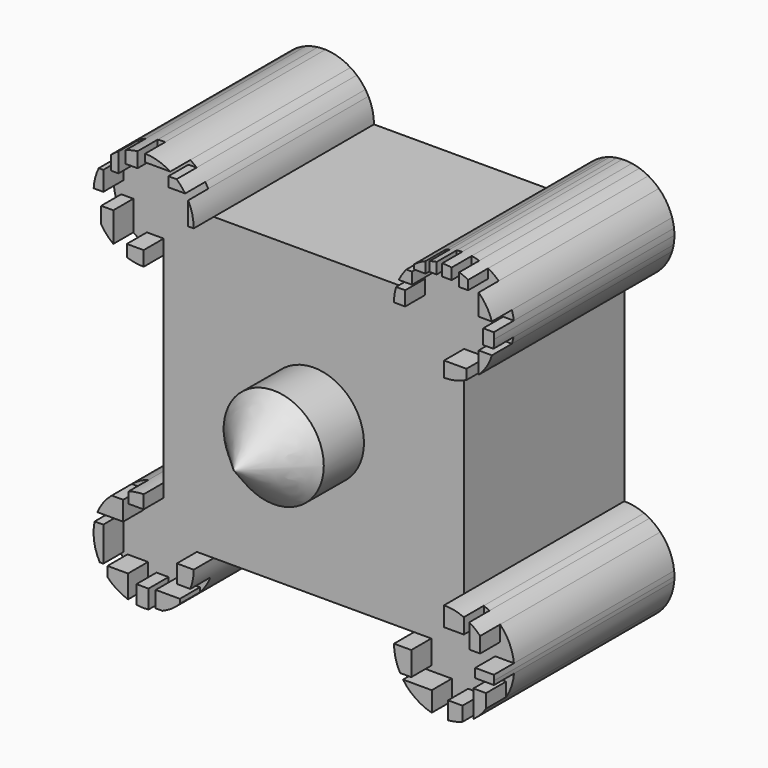
from build123d import *

# Parameters (mm, degrees)
F1_DEPTH  = 40
F2_DEPTH  = 45
F3_R      = 10
F7_R      = 10
F8_FACE_R = 10


with BuildPart() as f1:
    # F0 (on Front) → F1 (new body)
    with BuildSketch(Plane.XZ):
        with BuildLine():
            Line((-19.5192694664, 38.6552166259), (-21.2983953076, 38.6552166259))
            ThreePointArc((-21.2983953076, 38.6552166259), (-24.2273274957, 31.584148814), (-31.2983953076, 28.6552166259))
            Line((-31.2983953076, 28.6552166259), (-31.2983953076, 26.1431746185))
            Line((-31.2983953076, 26.1431746185), (-31.2983953076, -7.8573338687))
            Line((-31.2983953076, -7.8573338687), (-31.2983953076, -11.3447833741))
            ThreePointArc((-31.2983953076, -11.3447833741), (-24.2273274957, -14.2737155623), (-21.2983953076, -21.3447833741))
            Line((-21.2983953076, -21.3447833741), (-18.0444382131, -21.3447833741))
            Line((-18.0444382131, -21.3447833741), (15.4062714428, -21.3447833741))
            Line((15.4062714428, -21.3447833741), (18.7016046924, -21.3447833741))
            ThreePointArc((18.7016046924, -21.3447833741), (21.6305368805, -14.2737155623), (28.7016046924, -11.3447833741))
            Line((28.7016046924, -11.3447833741), (28.7016046924, -8.2212509587))
            Line((28.7016046924, -8.2212509587), (28.7016046924, 26.0202493519))
            Line((28.7016046924, 26.0202493519), (28.7016046924, 28.6552166259))
            ThreePointArc((28.7016046924, 28.6552166259), (21.6305368805, 31.584148814), (18.7016046924, 38.6552166259))
            Line((18.7016046924, 38.6552166259), (17.2888040543, 38.6552166259))
            Line((17.2888040543, 38.6552166259), (-19.5192694664, 38.6552166259))
        make_face()
        with BuildLine():
            ThreePointArc((-21.2983953076, -21.3447833741), (-24.2273274957, -14.2737155623), (-31.2983953076, -11.3447833741))
            Line((-31.2983953076, -11.3447833741), (-31.2983953076, -13.9995273203))
            Line((-31.2983953076, -13.9995273203), (-31.2983953076, -21.3447833741))
            Line((-31.2983953076, -21.3447833741), (-24.6683731675, -21.3447833741))
            Line((-24.6683731675, -21.3447833741), (-21.2983953076, -21.3447833741))
        make_face()
        with BuildLine():
            Line((28.7016046924, -15.2064906433), (28.7016046924, -11.3447833741))
            ThreePointArc((28.7016046924, -11.3447833741), (21.6305368805, -14.2737155623), (18.7016046924, -21.3447833741))
            Line((18.7016046924, -21.3447833741), (22.1506413072, -21.3447833741))
            Line((22.1506413072, -21.3447833741), (28.7016046924, -21.3447833741))
            Line((28.7016046924, -21.3447833741), (28.7016046924, -15.2064906433))
        make_face()
        with BuildLine():
            Line((20.9370907396, 38.6552166259), (18.7016046924, 38.6552166259))
            ThreePointArc((18.7016046924, 38.6552166259), (21.6305368805, 31.584148814), (28.7016046924, 28.6552166259))
            Line((28.7016046924, 28.6552166259), (28.7016046924, 31.6915661097))
            Line((28.7016046924, 31.6915661097), (28.7016046924, 38.6552166259))
            Line((28.7016046924, 38.6552166259), (20.9370907396, 38.6552166259))
        make_face()
        with BuildLine():
            Line((-22.4061483814, 38.6552166259), (-31.2983953076, 38.6552166259))
            Line((-31.2983953076, 38.6552166259), (-31.2983953076, 31.5864793956))
            Line((-31.2983953076, 31.5864793956), (-31.2983953076, 28.6552166259))
            ThreePointArc((-31.2983953076, 28.6552166259), (-24.2273274957, 31.584148814), (-21.2983953076, 38.6552166259))
            Line((-21.2983953076, 38.6552166259), (-22.4061483814, 38.6552166259))
        make_face()
        with BuildLine():
            Line((-31.2983953076, 31.5864793956), (-31.2983953076, 38.6552166259))
            Line((-31.2983953076, 38.6552166259), (-22.4061483814, 38.6552166259))
            Line((-22.4061483814, 38.6552166259), (-22.4061483814, 43.229923677))
            ThreePointArc((-22.4061483814, 43.229923677), (-22.6894336256, 43.743023497), (-23.0022925433, 44.2386455834))
            Line((-23.0022925433, 44.2386455834), (-26.3478793204, 44.2386455834))
            Line((-26.3478793204, 44.2386455834), (-26.3478793204, 46.1894199252))
            Line((-26.3478793204, 46.1894199252), (-24.7230032551, 46.1894199252))
            ThreePointArc((-24.7230032551, 46.1894199252), (-25.3341161625, 46.6818830746), (-25.9819677732, 47.1249036491))
            Line((-25.9819677732, 47.1249036491), (-30.9894606471, 47.1249036491))
            Line((-30.9894606471, 47.1249036491), (-30.9894606471, 48.6504434555))
            ThreePointArc((-30.9894606471, 48.6504434555), (-31.7511430488, 48.6449623425), (-32.5101986527, 48.5815217115))
            Line((-32.5101986527, 48.5815217115), (-32.5101986527, 45.584730804))
            Line((-32.5101986527, 45.584730804), (-34.9035263062, 45.584730804))
            Line((-34.9035263062, 45.584730804), (-34.9035263062, 47.9827581285))
            ThreePointArc((-34.9035263062, 47.9827581285), (-35.6330310996, 47.6669274818), (-36.335144192, 47.2941494694))
            Line((-36.335144192, 47.2941494694), (-36.335144192, 43.4362143278))
            Line((-36.335144192, 43.4362143278), (-37.7912968397, 43.4362143278))
            Line((-37.7912968397, 43.4362143278), (-37.7912968397, 46.2606245501))
            ThreePointArc((-37.7912968397, 46.2606245501), (-39.1903209398, 44.7966749067), (-40.2657431804, 43.0808998644))
            Line((-40.2657431804, 43.0808998644), (-39.3526405096, 43.0808998644))
            Line((-39.3526405096, 43.0808998644), (-39.3526405096, 39.2069965601))
            Line((-39.3526405096, 39.2069965601), (-41.2831606481, 39.2069965601))
            ThreePointArc((-41.2831606481, 39.2069965601), (-40.9840518019, 36.1676358181), (-39.7815443575, 33.3602962113))
            Line((-39.7815443575, 33.3602962113), (-39.7815443575, 36.6176068783))
            Line((-39.7815443575, 36.6176068783), (-37.3588092625, 36.6176068783))
            Line((-37.3588092625, 36.6176068783), (-37.3588092625, 30.7008855606))
            ThreePointArc((-37.3588092625, 30.7008855606), (-36.0644893634, 29.8640649691), (-34.6569493413, 29.2360810603))
            Line((-34.6569493413, 29.2360810603), (-34.6569493413, 31.5864793956))
            Line((-34.6569493413, 31.5864793956), (-31.2983953076, 31.5864793956))
        make_face()
        with BuildLine():
            Line((20.9370907396, 41.5121763945), (20.9370907396, 38.6552166259))
            Line((20.9370907396, 38.6552166259), (28.7016046924, 38.6552166259))
            Line((28.7016046924, 38.6552166259), (28.7016046924, 31.6915661097))
            Line((28.7016046924, 31.6915661097), (33.1739149988, 31.6915661097))
            Line((33.1739149988, 31.6915661097), (33.1739149988, 29.7110318937))
            ThreePointArc((33.1739149988, 29.7110318937), (34.4530170299, 30.4746753159), (35.604480654, 31.4198656697))
            Line((35.604480654, 31.4198656697), (35.604480654, 35.7097097086))
            Line((35.604480654, 35.7097097086), (38.2579632562, 35.7097097086))
            ThreePointArc((38.2579632562, 35.7097097086), (38.4272671804, 36.3289558558), (38.5564887696, 36.9577892125))
            Line((38.5564887696, 36.9577892125), (36.5159399807, 36.9577892125))
            Line((36.5159399807, 36.9577892125), (36.5159399807, 39.8947186768))
            Line((36.5159399807, 39.8947186768), (38.6244890848, 39.8947186768))
            ThreePointArc((38.6244890848, 39.8947186768), (38.4736234158, 40.7783393425), (38.2442350879, 41.644899742))
            Line((38.2442350879, 41.644899742), (35.604480654, 41.644899742))
            Line((35.604480654, 41.644899742), (35.604480654, 45.890567582))
            ThreePointArc((35.604480654, 45.890567582), (34.604809714, 46.7269060694), (33.5048548877, 47.4261223693))
            Line((33.5048548877, 47.4261223693), (33.5048548877, 45.5940142274))
            Line((33.5048548877, 45.5940142274), (31.7244045436, 45.5940142274))
            Line((31.7244045436, 45.5940142274), (31.7244045436, 48.1874084546))
            ThreePointArc((31.7244045436, 48.1874084546), (30.9797509535, 48.3922618457), (30.2215088159, 48.5390363053))
            Line((30.2215088159, 48.5390363053), (30.2215088159, 46.3171936572))
            Line((30.2215088159, 46.3171936572), (28.3177439123, 46.3171936572))
            Line((28.3177439123, 46.3171936572), (28.3177439123, 48.647846455))
            ThreePointArc((28.3177439123, 48.647846455), (27.7670329905, 48.6114496351), (27.2191688418, 48.5447254078))
            Line((27.2191688418, 48.5447254078), (27.2191688418, 46.3341660798))
            Line((27.2191688418, 46.3341660798), (25.811932981, 46.3341660798))
            Line((25.811932981, 46.3341660798), (25.811932981, 48.2286066942))
            ThreePointArc((25.811932981, 48.2286066942), (25.3995749241, 48.0943161279), (24.9934270978, 47.9422731524))
            Line((24.9934270978, 47.9422731524), (24.9934270978, 45.7545854151))
            Line((24.9934270978, 45.7545854151), (22.7282755077, 45.7545854151))
            Line((22.7282755077, 45.7545854151), (22.7282755077, 46.6751504442))
            ThreePointArc((22.7282755077, 46.6751504442), (21.9119338622, 45.9969037628), (21.1720732581, 45.2359579504))
            Line((21.1720732581, 45.2359579504), (22.2977045923, 45.2359579504))
            Line((22.2977045923, 45.2359579504), (22.2977045923, 42.925298214))
            Line((22.2977045923, 42.925298214), (19.6591269771, 42.925298214))
            ThreePointArc((19.6591269771, 42.925298214), (19.3619995401, 42.2289787332), (19.1184016328, 41.5121763945))
            Line((19.1184016328, 41.5121763945), (20.9370907396, 41.5121763945))
        make_face()
        with BuildLine():
            Line((-34.303188324, -13.9995273203), (-34.303188324, -11.8069000173))
            ThreePointArc((-34.303188324, -11.8069000173), (-36.0756221288, -12.5596764369), (-37.6709070987, -13.6382216588))
            Line((-37.6709070987, -13.6382216588), (-35.3871062398, -13.6382216588))
            Line((-35.3871062398, -13.6382216588), (-35.3871062398, -17.4921471626))
            Line((-35.3871062398, -17.4921471626), (-40.5264608807, -17.4921471626))
            ThreePointArc((-40.5264608807, -17.4921471626), (-40.8494530465, -18.3821331975), (-41.0868296184, -19.2986764014))
            Line((-41.0868296184, -19.2986764014), (-39.3614657223, -19.2986764014))
            Line((-39.3614657223, -19.2986764014), (-39.3614657223, -26.1634811759))
            Line((-39.3614657223, -26.1634811759), (-40.0608237093, -26.1634811759))
            ThreePointArc((-40.0608237093, -26.1634811759), (-39.3583210334, -27.2640398557), (-38.5184176266, -28.2636906371))
            Line((-38.5184176266, -28.2636906371), (-38.5184176266, -26.283916086))
            Line((-38.5184176266, -26.283916086), (-34.423623234, -26.283916086))
            Line((-34.423623234, -26.283916086), (-34.423623234, -30.8438859848))
            ThreePointArc((-34.423623234, -30.8438859848), (-33.589184658, -31.0788618694), (-32.7375307679, -31.2406860175))
            Line((-32.7375307679, -31.2406860175), (-32.7375307679, -27.6087038219))
            Line((-32.7375307679, -27.6087038219), (-30.3288269788, -27.6087038219))
            Line((-30.3288269788, -27.6087038219), (-30.3288269788, -31.2976692499))
            ThreePointArc((-30.3288269788, -31.2976692499), (-28.9199566333, -31.0578173735), (-27.5596645795, -30.6195821613))
            Line((-27.5596645795, -30.6195821613), (-28.8836043328, -30.6195821613))
            Line((-28.8836043328, -30.6195821613), (-28.8836043328, -27.3678321391))
            Line((-28.8836043328, -27.3678321391), (-24.0661986172, -27.3678321391))
            Line((-24.0661986172, -27.3678321391), (-24.0661986172, -28.2509640141))
            ThreePointArc((-24.0661986172, -28.2509640141), (-22.8582684133, -26.7080154229), (-21.9744209978, -24.9591302127))
            Line((-21.9744209978, -24.9591302127), (-24.6683731675, -24.9591302127))
            Line((-24.6683731675, -24.9591302127), (-24.6683731675, -21.3447833741))
            Line((-24.6683731675, -21.3447833741), (-31.2983953076, -21.3447833741))
            Line((-31.2983953076, -21.3447833741), (-31.2983953076, -13.9995273203))
            Line((-31.2983953076, -13.9995273203), (-34.303188324, -13.9995273203))
        make_face()
        with BuildLine():
            Line((32.6510183513, -15.2064906433), (28.7016046924, -15.2064906433))
            Line((28.7016046924, -15.2064906433), (28.7016046924, -21.3447833741))
            Line((28.7016046924, -21.3447833741), (22.1506413072, -21.3447833741))
            Line((22.1506413072, -21.3447833741), (22.1506413072, -26.1106528342))
            Line((22.1506413072, -26.1106528342), (19.9103312755, -26.1106528342))
            ThreePointArc((19.9103312755, -26.1106528342), (20.1943134885, -26.6008271689), (20.5055970261, -27.0741339773))
            Line((20.5055970261, -27.0741339773), (26.2454375625, -27.0741339773))
            Line((26.2454375625, -27.0741339773), (26.2454375625, -31.03845363))
            ThreePointArc((26.2454375625, -31.03845363), (27.8600343313, -31.3093084169), (29.4971875846, -31.3130855296))
            Line((29.4971875846, -31.3130855296), (29.4971875846, -27.7967453003))
            Line((29.4971875846, -27.7967453003), (32.3876328766, -27.7967453003))
            Line((32.3876328766, -27.7967453003), (32.3876328766, -30.6406532218))
            ThreePointArc((32.3876328766, -30.6406532218), (33.5084119255, -30.1137402234), (34.555464983, -29.4523304568))
            Line((34.555464983, -29.4523304568), (34.555464983, -24.0632537752))
            Line((34.555464983, -24.0632537752), (37.0846018195, -24.0632537752))
            Line((37.0846018195, -24.0632537752), (37.0846018195, -26.796880142))
            ThreePointArc((37.0846018195, -26.796880142), (38.1686947609, -24.565684744), (38.6702312229, -22.136291489))
            Line((38.6702312229, -22.136291489), (34.9167697132, -22.136291489))
            Line((34.9167697132, -22.136291489), (34.9167697132, -20.3297641128))
            Line((34.9167697132, -20.3297641128), (38.6499581189, -20.3297641128))
            ThreePointArc((38.6499581189, -20.3297641128), (37.7734561196, -17.1374669275), (35.9027683735, -14.40625027))
            Line((35.9027683735, -14.40625027), (35.9027683735, -17.4947604537))
            Line((35.9027683735, -17.4947604537), (33.7349362671, -17.4947604537))
            Line((33.7349362671, -17.4947604537), (33.7349362671, -12.7038590452))
            ThreePointArc((33.7349362671, -12.7038590452), (33.2012707825, -12.4143295739), (32.6510183513, -12.157720092))
            Line((32.6510183513, -12.157720092), (32.6510183513, -15.2064906433))
        make_face()
    extrude(amount=F1_DEPTH)

    # F0 (on Front) → F2 (join)
    with BuildSketch(Plane.XZ):
        with BuildLine():
            Line((-22.4061483814, 43.229923677), (-22.4061483814, 38.6552166259))
            Line((-22.4061483814, 38.6552166259), (-21.2983953076, 38.6552166259))
            ThreePointArc((-21.2983953076, 38.6552166259), (-21.57927834, 41.0086747982), (-22.4061483814, 43.229923677))
        make_face()
        with BuildLine():
            Line((-26.3478793204, 44.2386455834), (-23.0022925433, 44.2386455834))
            ThreePointArc((-23.0022925433, 44.2386455834), (-23.7989473509, 45.2702208092), (-24.7230032551, 46.1894199252))
            Line((-24.7230032551, 46.1894199252), (-26.3478793204, 46.1894199252))
            Line((-26.3478793204, 46.1894199252), (-26.3478793204, 44.2386455834))
        make_face()
        with BuildLine():
            Line((-30.9894606471, 47.1249036491), (-25.9819677732, 47.1249036491))
            ThreePointArc((-25.9819677732, 47.1249036491), (-28.3841213189, 48.2211461217), (-30.9894606471, 48.6504434555))
            Line((-30.9894606471, 48.6504434555), (-30.9894606471, 47.1249036491))
        make_face()
        with BuildLine():
            Line((-32.5101986527, 45.584730804), (-32.5101986527, 48.5815217115))
            ThreePointArc((-32.5101986527, 48.5815217115), (-33.7253983103, 48.3562297907), (-34.9035263062, 47.9827581285))
            Line((-34.9035263062, 47.9827581285), (-34.9035263062, 45.584730804))
            Line((-34.9035263062, 45.584730804), (-32.5101986527, 45.584730804))
        make_face()
        with BuildLine():
            ThreePointArc((-36.335144192, 47.2941494694), (-37.0863356253, 46.8099543211), (-37.7912968397, 46.2606245501))
            Line((-37.7912968397, 46.2606245501), (-37.7912968397, 43.4362143278))
            Line((-37.7912968397, 43.4362143278), (-36.335144192, 43.4362143278))
            Line((-36.335144192, 43.4362143278), (-36.335144192, 47.2941494694))
        make_face()
        with BuildLine():
            ThreePointArc((-40.2657431804, 43.0808998644), (-40.9703873731, 41.1954074622), (-41.2831606481, 39.2069965601))
            Line((-41.2831606481, 39.2069965601), (-39.3526405096, 39.2069965601))
            Line((-39.3526405096, 39.2069965601), (-39.3526405096, 43.0808998644))
            Line((-39.3526405096, 43.0808998644), (-40.2657431804, 43.0808998644))
        make_face()
        with BuildLine():
            ThreePointArc((-39.7815443575, 33.3602962113), (-38.6907509857, 31.9207472682), (-37.3588092625, 30.7008855606))
            Line((-37.3588092625, 30.7008855606), (-37.3588092625, 36.6176068783))
            Line((-37.3588092625, 36.6176068783), (-39.7815443575, 36.6176068783))
            Line((-39.7815443575, 36.6176068783), (-39.7815443575, 33.3602962113))
        make_face()
        with BuildLine():
            Line((-31.2983953076, 28.6552166259), (-31.2983953076, 31.5864793956))
            Line((-31.2983953076, 31.5864793956), (-34.6569493413, 31.5864793956))
            Line((-34.6569493413, 31.5864793956), (-34.6569493413, 29.2360810603))
            ThreePointArc((-34.6569493413, 29.2360810603), (-33.0026025051, 28.8015027155), (-31.2983953076, 28.6552166259))
        make_face()
        with BuildLine():
            Line((-31.2983953076, -13.9995273203), (-31.2983953076, -11.3447833741))
            ThreePointArc((-31.2983953076, -11.3447833741), (-32.8184555748, -11.4609877073), (-34.303188324, -11.8069000173))
            Line((-34.303188324, -11.8069000173), (-34.303188324, -13.9995273203))
            Line((-34.303188324, -13.9995273203), (-31.2983953076, -13.9995273203))
        make_face()
        with BuildLine():
            Line((-35.3871062398, -13.6382216588), (-37.6709070987, -13.6382216588))
            ThreePointArc((-37.6709070987, -13.6382216588), (-39.3331752654, -15.3914388495), (-40.5264608807, -17.4921471626))
            Line((-40.5264608807, -17.4921471626), (-35.3871062398, -17.4921471626))
            Line((-35.3871062398, -17.4921471626), (-35.3871062398, -13.6382216588))
        make_face()
        with BuildLine():
            Line((-39.3614657223, -19.2986764014), (-41.0868296184, -19.2986764014))
            ThreePointArc((-41.0868296184, -19.2986764014), (-41.1885425761, -22.8229535293), (-40.0608237093, -26.1634811759))
            Line((-40.0608237093, -26.1634811759), (-39.3614657223, -26.1634811759))
            Line((-39.3614657223, -26.1634811759), (-39.3614657223, -19.2986764014))
        make_face()
        with BuildLine():
            Line((-38.5184176266, -26.283916086), (-38.5184176266, -28.2636906371))
            ThreePointArc((-38.5184176266, -28.2636906371), (-36.629474248, -29.8052560165), (-34.423623234, -30.8438859848))
            Line((-34.423623234, -30.8438859848), (-34.423623234, -26.283916086))
            Line((-34.423623234, -26.283916086), (-38.5184176266, -26.283916086))
        make_face()
        with BuildLine():
            ThreePointArc((-32.7375307679, -31.2406860175), (-31.5349013222, -31.3419862282), (-30.3288269788, -31.2976692499))
            Line((-30.3288269788, -31.2976692499), (-30.3288269788, -27.6087038219))
            Line((-30.3288269788, -27.6087038219), (-32.7375307679, -27.6087038219))
            Line((-32.7375307679, -27.6087038219), (-32.7375307679, -31.2406860175))
        make_face()
        with BuildLine():
            ThreePointArc((-27.5596645795, -30.6195821613), (-25.6865417736, -29.621684963), (-24.0661986172, -28.2509640141))
            Line((-24.0661986172, -28.2509640141), (-24.0661986172, -27.3678321391))
            Line((-24.0661986172, -27.3678321391), (-28.8836043328, -27.3678321391))
            Line((-28.8836043328, -27.3678321391), (-28.8836043328, -30.6195821613))
            Line((-28.8836043328, -30.6195821613), (-27.5596645795, -30.6195821613))
        make_face()
        with BuildLine():
            ThreePointArc((-21.9744209978, -24.9591302127), (-21.4688545478, -23.1832959389), (-21.2983953076, -21.3447833741))
            Line((-21.2983953076, -21.3447833741), (-24.6683731675, -21.3447833741))
            Line((-24.6683731675, -21.3447833741), (-24.6683731675, -24.9591302127))
            Line((-24.6683731675, -24.9591302127), (-21.9744209978, -24.9591302127))
        make_face()
        with BuildLine():
            Line((22.1506413072, -21.3447833741), (18.7016046924, -21.3447833741))
            ThreePointArc((18.7016046924, -21.3447833741), (19.0084954346, -23.8031635147), (19.9103312755, -26.1106528342))
            Line((19.9103312755, -26.1106528342), (22.1506413072, -26.1106528342))
            Line((22.1506413072, -26.1106528342), (22.1506413072, -21.3447833741))
        make_face()
        with BuildLine():
            Line((26.2454375625, -27.0741339773), (20.5055970261, -27.0741339773))
            ThreePointArc((20.5055970261, -27.0741339773), (23.0186332382, -29.5730174162), (26.2454375625, -31.03845363))
            Line((26.2454375625, -31.03845363), (26.2454375625, -27.0741339773))
        make_face()
        with BuildLine():
            Line((29.4971875846, -27.7967453003), (29.4971875846, -31.3130855296))
            ThreePointArc((29.4971875846, -31.3130855296), (30.9674932074, -31.0846883653), (32.3876328766, -30.6406532218))
            Line((32.3876328766, -30.6406532218), (32.3876328766, -27.7967453003))
            Line((32.3876328766, -27.7967453003), (29.4971875846, -27.7967453003))
        make_face()
        with BuildLine():
            Line((34.555464983, -24.0632537752), (34.555464983, -29.4523304568))
            ThreePointArc((34.555464983, -29.4523304568), (35.9427980593, -28.2415303336), (37.0846018195, -26.796880142))
            Line((37.0846018195, -26.796880142), (37.0846018195, -24.0632537752))
            Line((37.0846018195, -24.0632537752), (34.555464983, -24.0632537752))
        make_face()
        with BuildLine():
            ThreePointArc((38.7016046924, -21.3447833741), (38.6886847027, -20.8366171933), (38.6499581189, -20.3297641128))
            Line((38.6499581189, -20.3297641128), (34.9167697132, -20.3297641128))
            Line((34.9167697132, -20.3297641128), (34.9167697132, -22.136291489))
            Line((34.9167697132, -22.136291489), (38.6702312229, -22.136291489))
            ThreePointArc((38.6702312229, -22.136291489), (38.6937582467, -21.7408482017), (38.7016046924, -21.3447833741))
        make_face()
        with BuildLine():
            ThreePointArc((35.9027683735, -14.40625027), (34.8777889927, -13.4800044524), (33.7349362671, -12.7038590452))
            Line((33.7349362671, -12.7038590452), (33.7349362671, -17.4947604537))
            Line((33.7349362671, -17.4947604537), (35.9027683735, -17.4947604537))
            Line((35.9027683735, -17.4947604537), (35.9027683735, -14.40625027))
        make_face()
        with BuildLine():
            ThreePointArc((32.6510183513, -12.157720092), (30.7177107385, -11.5501258298), (28.7016046924, -11.3447833741))
            Line((28.7016046924, -11.3447833741), (28.7016046924, -15.2064906433))
            Line((28.7016046924, -15.2064906433), (32.6510183513, -15.2064906433))
            Line((32.6510183513, -15.2064906433), (32.6510183513, -12.157720092))
        make_face()
        with BuildLine():
            ThreePointArc((19.1184016328, 41.5121763945), (18.806352533, 40.098817922), (18.7016046924, 38.6552166259))
            Line((18.7016046924, 38.6552166259), (20.9370907396, 38.6552166259))
            Line((20.9370907396, 38.6552166259), (20.9370907396, 41.5121763945))
            Line((20.9370907396, 41.5121763945), (19.1184016328, 41.5121763945))
        make_face()
        with BuildLine():
            ThreePointArc((24.9934270978, 47.9422731524), (23.8195668629, 47.3825132652), (22.7282755077, 46.6751504442))
            Line((22.7282755077, 46.6751504442), (22.7282755077, 45.7545854151))
            Line((22.7282755077, 45.7545854151), (24.9934270978, 45.7545854151))
            Line((24.9934270978, 45.7545854151), (24.9934270978, 47.9422731524))
        make_face()
        with BuildLine():
            ThreePointArc((27.2191688418, 48.5447254078), (26.5098442371, 48.412069915), (25.811932981, 48.2286066942))
            Line((25.811932981, 48.2286066942), (25.811932981, 46.3341660798))
            Line((25.811932981, 46.3341660798), (27.2191688418, 46.3341660798))
            Line((27.2191688418, 46.3341660798), (27.2191688418, 48.5447254078))
        make_face()
        with BuildLine():
            ThreePointArc((30.2215088159, 48.5390363053), (29.272225873, 48.638922925), (28.3177439123, 48.647846455))
            Line((28.3177439123, 48.647846455), (28.3177439123, 46.3171936572))
            Line((28.3177439123, 46.3171936572), (30.2215088159, 46.3171936572))
            Line((30.2215088159, 46.3171936572), (30.2215088159, 48.5390363053))
        make_face()
        with BuildLine():
            ThreePointArc((33.5048548877, 47.4261223693), (32.6330998226, 47.8499621928), (31.7244045436, 48.1874084546))
            Line((31.7244045436, 48.1874084546), (31.7244045436, 45.5940142274))
            Line((31.7244045436, 45.5940142274), (33.5048548877, 45.5940142274))
            Line((33.5048548877, 45.5940142274), (33.5048548877, 47.4261223693))
        make_face()
        with BuildLine():
            Line((35.604480654, 41.644899742), (38.2442350879, 41.644899742))
            ThreePointArc((38.2442350879, 41.644899742), (37.1939597066, 43.9353592672), (35.604480654, 45.890567582))
            Line((35.604480654, 45.890567582), (35.604480654, 41.644899742))
        make_face()
        with BuildLine():
            Line((36.5159399807, 36.9577892125), (38.5564887696, 36.9577892125))
            ThreePointArc((38.5564887696, 36.9577892125), (38.6652596636, 37.8034070147), (38.7016046924, 38.6552166259))
            ThreePointArc((38.7016046924, 38.6552166259), (38.6823071708, 39.2761659296), (38.6244890848, 39.8947186768))
            Line((38.6244890848, 39.8947186768), (36.5159399807, 39.8947186768))
            Line((36.5159399807, 39.8947186768), (36.5159399807, 36.9577892125))
        make_face()
        with BuildLine():
            Line((35.604480654, 35.7097097086), (35.604480654, 31.4198656697))
            ThreePointArc((35.604480654, 31.4198656697), (37.2061499924, 33.3947309791), (38.2579632562, 35.7097097086))
            Line((38.2579632562, 35.7097097086), (35.604480654, 35.7097097086))
        make_face()
        with BuildLine():
            Line((28.7016046924, 31.6915661097), (28.7016046924, 28.6552166259))
            ThreePointArc((28.7016046924, 28.6552166259), (30.9992287563, 28.9227491247), (33.1739149988, 29.7110318937))
            Line((33.1739149988, 29.7110318937), (33.1739149988, 31.6915661097))
            Line((33.1739149988, 31.6915661097), (28.7016046924, 31.6915661097))
        make_face()
        with BuildLine():
            ThreePointArc((21.1720732581, 45.2359579504), (20.3354431521, 44.133112306), (19.6591269771, 42.925298214))
            Line((19.6591269771, 42.925298214), (22.2977045923, 42.925298214))
            Line((22.2977045923, 42.925298214), (22.2977045923, 45.2359579504))
            Line((22.2977045923, 45.2359579504), (21.1720732581, 45.2359579504))
        make_face()
    extrude(amount=F2_DEPTH)

    # F3 (on face) → F8 section 0
    with BuildSketch(Plane.XZ.offset(40)):
        with Locations((-1.2983953076, 8.6552166259)):
            Circle(F3_R)
    # F7 (on offset) → F8 section 1
    with BuildSketch(Plane.XZ.offset(50)):
        with Locations((-1.3214766514, 8.6910892278)):
            Circle(F7_R)
    loft()

    # F8_face (on face) → F9 section 0
    with BuildSketch(Plane(origin=(-1.3214766514, -50, 8.6910892278), x_dir=(1, 0, 0), z_dir=(0, -1, 0)), mode=Mode.PRIVATE) as f9_s0:
        Circle(F8_FACE_R)
    loft([f9_s0.sketch, Vertex(-1.2804087019, -60, 8.6738858372)])


solid = f1.part
